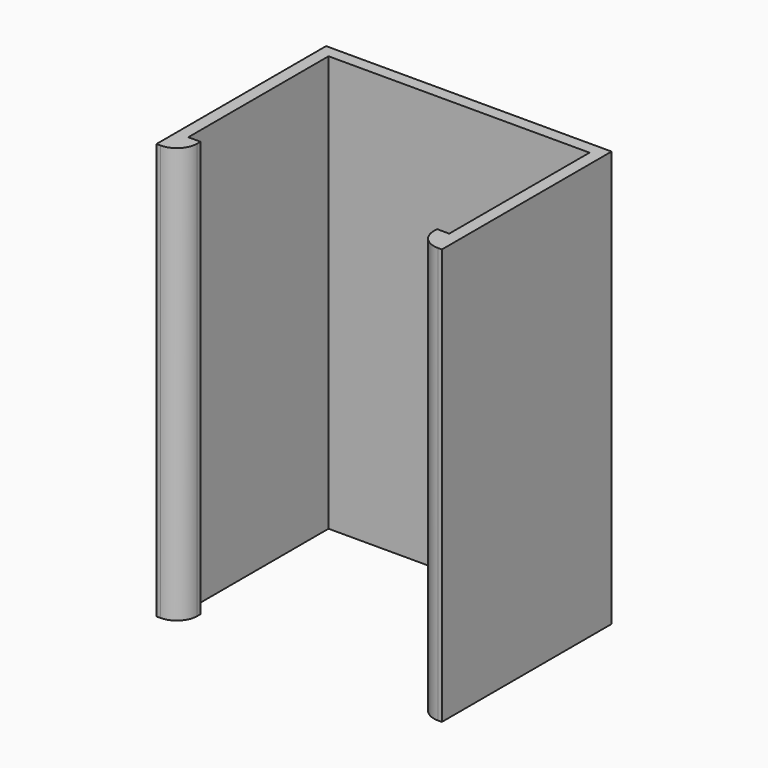
from build123d import *

# Parameters (mm, degrees)
BOX002_W     = 6
BOX002_H     = 6
BOX002_DEPTH = 102
FILLET_R     = 5
BOX001_W     = 64
BOX001_H     = 43
BOX001_DEPTH = 102
BOX_W        = 70
BOX_H        = 46
BOX_DEPTH    = 102


with BuildPart() as fillet_body:
    # Box002 → Box002 (new body)
    with BuildSketch(Plane(origin=(0, -6, 0), x_dir=(1, 0, 0), z_dir=(0, 0, 1))):
        with Locations((3, 3)):
            Rectangle(BOX002_W, BOX002_H)
    extrude(amount=BOX002_DEPTH)

    # Fillet
    fillet_edges = [fillet_body.edges().sort_by_distance(p)[0] for p in [
        (6, -6, 51),
    ]]
    fillet(fillet_edges, radius=FILLET_R)


with BuildPart() as part_mirroring:
    # Part__Mirroring: instance of Fillet body
    add(fillet_body.part.mirror(Plane(origin=(0, 0, 0), x_dir=(0, -1, 0), z_dir=(1, 0, 0))))


with BuildPart() as part_mirroring_1:
    # Part__Mirroring placement: moved
    add(part_mirroring.part.moved(Location((70, 0, 0))))


with BuildPart() as box001:
    # Box001 → Box001 (new body)
    with BuildSketch(Plane(origin=(3, 0, 0), x_dir=(1, 0, 0), z_dir=(0, 0, 1))):
        with Locations((32, 21.5)):
            Rectangle(BOX001_W, BOX001_H)
    extrude(amount=BOX001_DEPTH)


with BuildPart() as fusion:
    # Box → Box (new body)
    with BuildSketch(Plane.XY):
        with Locations((35, 23)):
            Rectangle(BOX_W, BOX_H)
    extrude(amount=BOX_DEPTH)

    # Cut: cut Box001
    add(box001.part, mode=Mode.SUBTRACT)

    # Fusion: union Fillet body, Part__Mirroring
    add(fillet_body.part)
    add(part_mirroring_1.part)


solid = fusion.part
